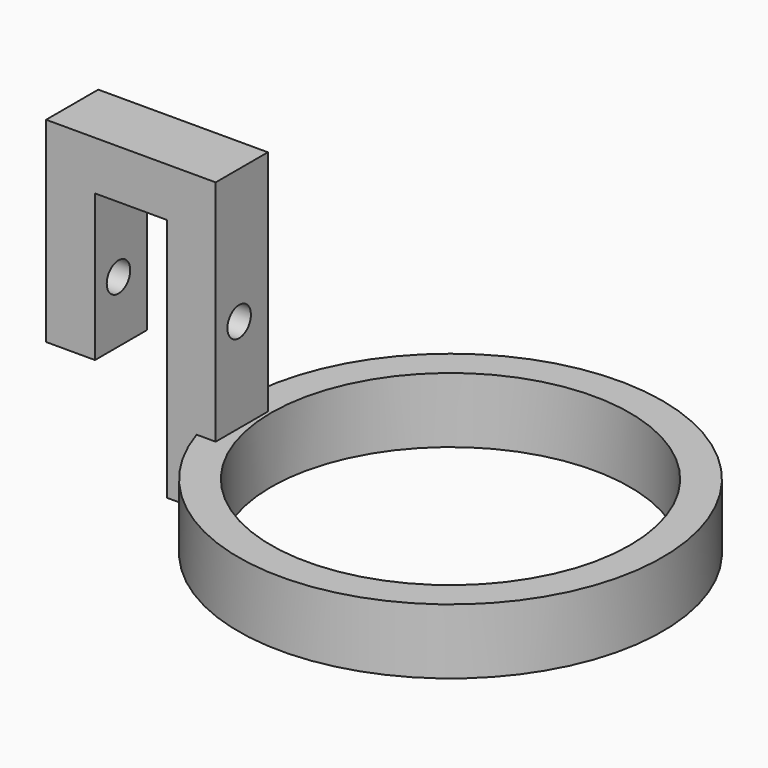
from build123d import *

# Parameters (mm, degrees)
F0_R     = 65
F0_R_2   = 55
F1_DEPTH = 20
F3_DEPTH = 20
F4_R     = 4.5
F5_DEPTH = 172.996652


with BuildPart() as f1:
    # F0 (on Top) → F1 (new body)
    with BuildSketch(Plane.XY):
        Circle(F0_R)
        Circle(F0_R_2, mode=Mode.SUBTRACT)
    extrude(amount=F1_DEPTH)

    # F2 (on Front) → F3 (join)
    with BuildSketch(Plane.XZ):
        Polygon((-70.995652, 0), (-55.995652, 0), (-55.995652, 90), (-70.995652, 90), (-107.995652, 90), (-107.995652, 30), (-92.995652, 30), (-92.995652, 75), (-70.995652, 75), align=None)
    extrude(amount=F3_DEPTH)

    # F4 (on face) → F5 (cut, through all)
    with BuildSketch(Plane(origin=(-107.995652, 0, 0), x_dir=(0, -1, 0), z_dir=(-1, 0, 0))):
        with Locations((11, 48.7937)):
            Circle(F4_R)
    extrude(amount=-F5_DEPTH, mode=Mode.SUBTRACT)


solid = f1.part
